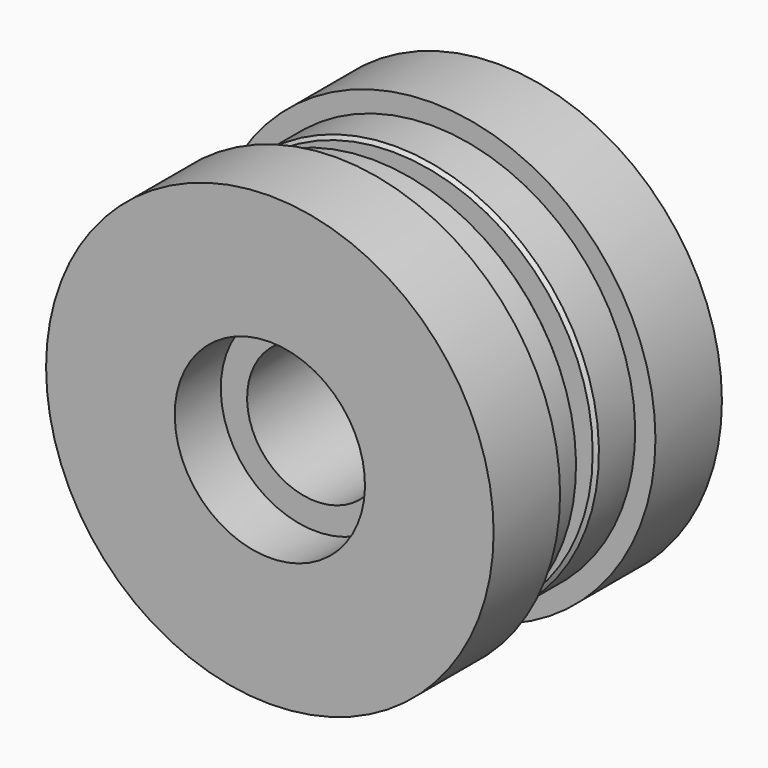
from build123d import *

# Parameters (mm, degrees)
F2_SIZE = 0.762
F3_R    = 0.254


with BuildPart() as f1:
    # F0 (on Right) → F1 (revolve)
    with BuildSketch(Plane.YZ):
        Polygon((-18.7706, 15.1765), (0, 15.1765), (18.7706, 15.1765), (18.7706, 20.9804), (31.4706, 20.9804), (31.4706, 49.3522), (13.1445, 49.3522), (13.1445, 44.8818), (2.39395, 44.8818), (2.39395, 32.1818), (-2.39395, 32.1818), (-2.39395, 44.8818), (-13.1445, 44.8818), (-13.1445, 49.3522), (-31.4706, 49.3522), (-31.4706, 20.9804), (-18.7706, 20.9804), align=None)
    revolve(axis=Axis((0, -0.984378, 0), (0, 1, 0)))

    # F2
    f2_edges = [f1.edges().sort_by_distance(p)[0] for p in [
        (0, 2.39395, -44.8818),
        (0, -2.39395, -44.8818),
    ]]
    chamfer(f2_edges, length=F2_SIZE)

    # F3
    f3_edges = [f1.edges().sort_by_distance(p)[0] for p in [
        (0, 2.39395, -32.1818),
        (0, -2.39395, -32.1818),
    ]]
    fillet(f3_edges, radius=F3_R)


solid = f1.part
